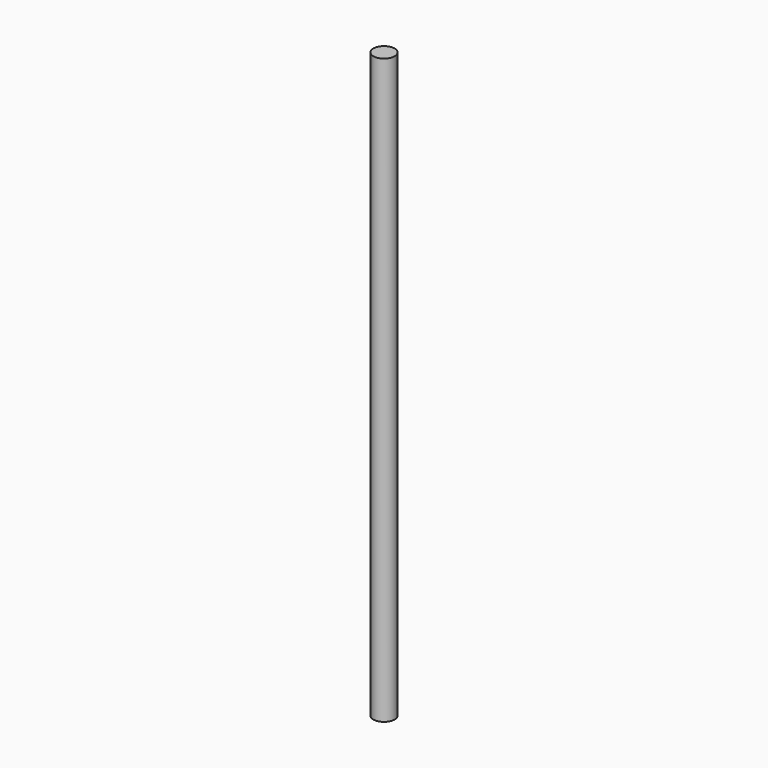
from build123d import *

# Parameters (mm, degrees)
CYLINDER_R     = 4
CYLINDER_DEPTH = 220


with BuildPart() as part:
    # Cylinder → Cylinder (new body)
    with BuildSketch(Plane.XY):
        Circle(CYLINDER_R)
    extrude(amount=CYLINDER_DEPTH)


solid = part.part
